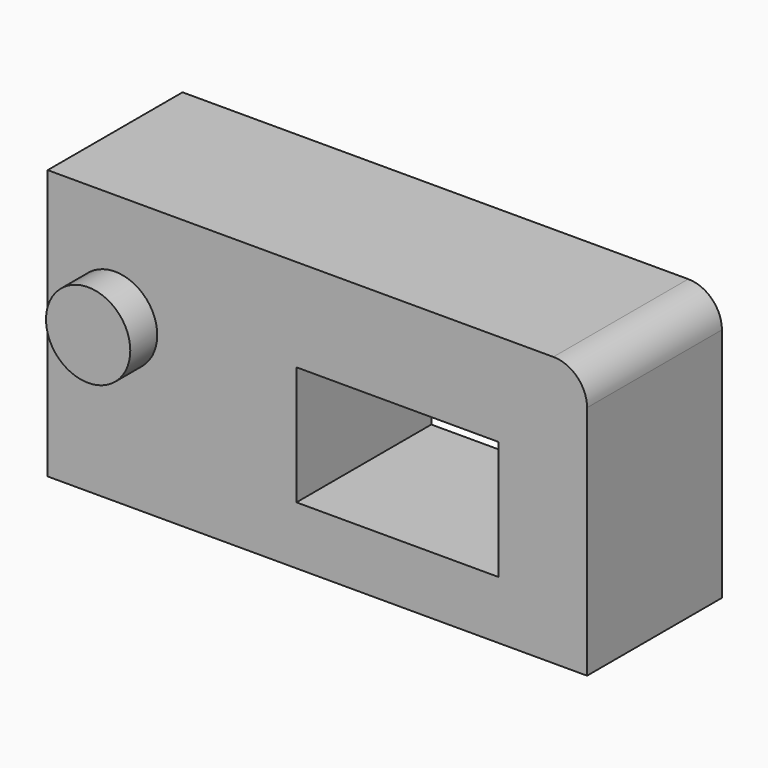
from build123d import *

# Parameters (mm, degrees)
F0_W     = 32
F0_H     = 16
F1_DEPTH = 10
F2_R     = 2.5
F3_DEPTH = 2
F4_R     = 2
F5_W     = 12
F5_H     = 7.054545
F6_DEPTH = 10


with BuildPart() as f1:
    # F0 (on Front) → F1 (new body)
    with BuildSketch(Plane.XZ):
        with Locations((-16, 8)):
            Rectangle(F0_W, F0_H)
    extrude(amount=F1_DEPTH)

    # F2 (on face) → F3 (join)
    with BuildSketch(Plane.XZ.offset(10)):
        with Locations((-28, 9.5)):
            Circle(F2_R)
    extrude(amount=F3_DEPTH)

    # F4
    f4_edges = [f1.edges().sort_by_distance(p)[0] for p in [
        (0, -5, 16),
    ]]
    fillet(f4_edges, radius=F4_R)

    # F5 (on face) → F6 (cut, through all)
    with BuildSketch(Plane.XZ.offset(10)):
        with Locations((-11.240668, 6.974615)):
            Rectangle(F5_W, F5_H)
    extrude(amount=-F6_DEPTH, mode=Mode.SUBTRACT)


solid = f1.part
